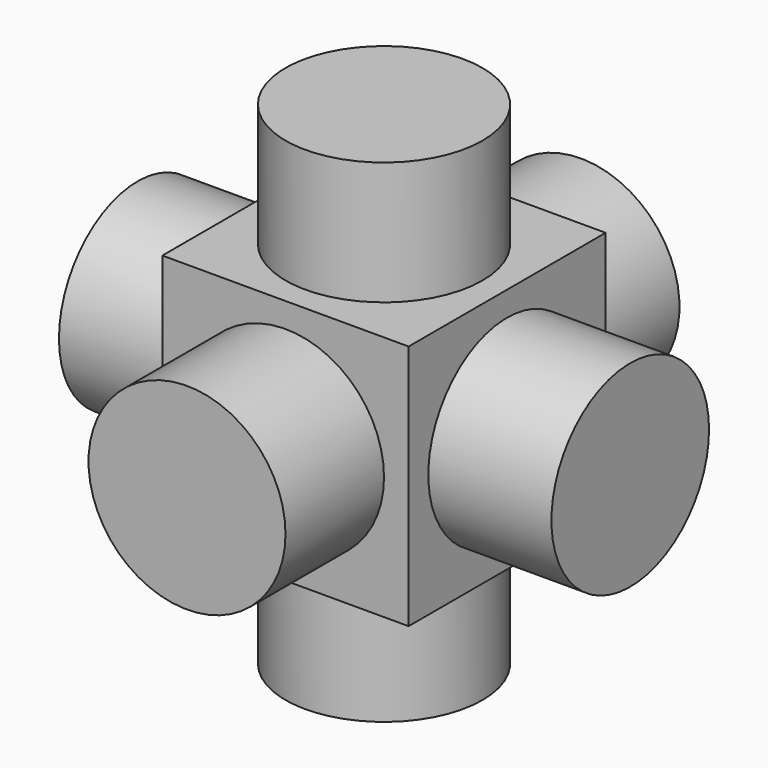
from build123d import *

# Parameters (mm, degrees)
F0_W      = 10
F0_H      = 10
F1_DEPTH  = 10
F2_R      = 4
F3_DEPTH  = 5
F4_R      = 4
F5_DEPTH  = 5
F6_R      = 4
F7_DEPTH  = 5
F8_R      = 4
F9_DEPTH  = 5
F10_R     = 4
F11_DEPTH = 5
F12_R     = 4
F13_DEPTH = 5


with BuildPart() as f1:
    # F0 (on Top) → F1 (new body)
    with BuildSketch(Plane.XY):
        Rectangle(F0_W, F0_H)
    extrude(amount=F1_DEPTH)

    # F2 (on face) → F3 (join)
    with BuildSketch(Plane.YZ.offset(5)):
        with Locations((0, 5)):
            Circle(F2_R)
    extrude(amount=F3_DEPTH)

    # F4 (on face) → F5 (join)
    with BuildSketch(Plane(origin=(0, 0, 0), x_dir=(1, 0, 0), z_dir=(0, 0, -1))):
        Circle(F4_R)
    extrude(amount=F5_DEPTH)

    # F6 (on face) → F7 (join)
    with BuildSketch(Plane(origin=(-5, 0, 0), x_dir=(0, -1, 0), z_dir=(-1, 0, 0))):
        with Locations((0, 5)):
            Circle(F6_R)
    extrude(amount=F7_DEPTH)

    # F8 (on face) → F9 (join)
    with BuildSketch(Plane.XY.offset(10)):
        Circle(F8_R)
    extrude(amount=F9_DEPTH)

    # F10 (on face) → F11 (join)
    with BuildSketch(Plane(origin=(0, 5, 0), x_dir=(-1, 0, 0), z_dir=(0, 1, 0))):
        with Locations((0, 5)):
            Circle(F10_R)
    extrude(amount=F11_DEPTH)

    # F12 (on face) → F13 (join)
    with BuildSketch(Plane.XZ.offset(5)):
        with Locations((0, 5)):
            Circle(F12_R)
    extrude(amount=F13_DEPTH)


solid = f1.part
